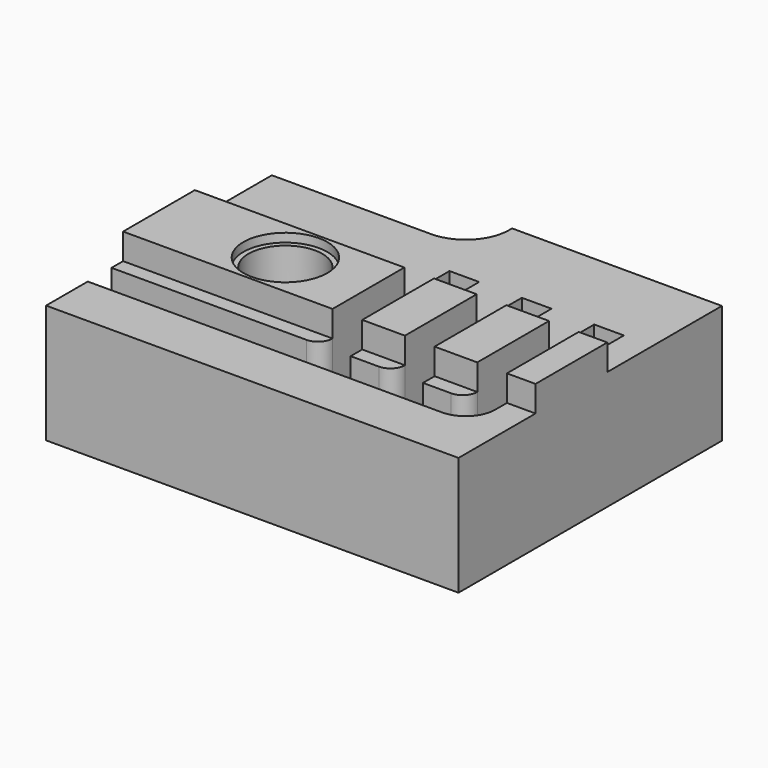
from build123d import *

# Parameters (mm, degrees)
PAD004_DEPTH    = 8.2
SKETCH014_W     = 28.5
SKETCH014_H     = 6.2
PAD005_DEPTH    = 1.8
SKETCH015_R     = 2.9
POCKET004_DEPTH = 0.6
SKETCH016_W     = 2.05
SKETCH016_H     = 6.2
POCKET005_DEPTH = 1.8
POCKET006_DEPTH = 4
SKETCH019_R     = 2.55
POCKET008_DEPTH = 7.5
SKETCH020_R     = 7
POCKET_DEPTH    = 3


with BuildPart() as part:
    # Sketch013 → Pad004 (new body)
    with BuildSketch(Plane.XY):
        with BuildLine():
            Line((0, 0), (28.5, 0))
            Line((28.5, 0), (28.5, 22.75))
            Line((28.5, 22.75), (14, 22.75))
            Line((14, 22.75), (14, 22.5))
            ThreePointArc((11, 19.5), (13.12132, 20.37868), (14, 22.5))
            Line((11, 19.5), (0, 19.5))
            Line((0, 19.5), (0, 0))
        make_face()
    extrude(amount=PAD004_DEPTH)

    # Sketch014 (on Face9 of Pad004) → Pad005 (join)
    with BuildSketch(Plane.XY.offset(8.2)):
        with Locations((14.25, 9.75)):
            Rectangle(SKETCH014_W, SKETCH014_H)
    extrude(amount=PAD005_DEPTH)

    # Sketch015 (on Face11 of Pad005) → Pocket004 (cut)
    with BuildSketch(Plane.XY.offset(10)):
        with Locations((8.735056, 9.75)):
            Circle(SKETCH015_R)
    extrude(amount=-POCKET004_DEPTH, mode=Mode.SUBTRACT)

    # Sketch016 (on Face10 of Pocket004) → Pocket005 (cut)
    with BuildSketch(Plane.XY.offset(10)):
        with Locations((15.5, 9.75)):
            Rectangle(SKETCH016_W, SKETCH016_H)
        Polygon((21.525, 12.85), (21.525, 6.65), (19.475, 6.65), (19.475, 12.85), (20.5, 12.85), align=None)
        with Locations((25.5, 9.75)):
            Rectangle(SKETCH016_W, SKETCH016_H)
    extrude(amount=-POCKET005_DEPTH, mode=Mode.SUBTRACT)

    # Sketch017 (on Face19 of Clone) → Pocket006 (cut)
    with BuildSketch(Plane.XY.offset(8.2)):
        with BuildLine():
            Line((0, 5.65), (13.475, 5.65))
            ThreePointArc((13.475, 5.65), (14.182107, 5.942893), (14.475, 6.65))
            Line((14.475, 6.65), (14.475, 16.75))
            Line((14.475, 16.75), (16.525, 16.75))
            Line((16.525, 16.75), (16.525, 5.65))
            Line((16.525, 5.65), (18.475, 5.65))
            ThreePointArc((18.475, 5.65), (19.182107, 5.942893), (19.475, 6.65))
            Line((19.475, 6.65), (19.475, 16.75))
            Line((19.475, 16.75), (21.525, 16.75))
            Line((21.525, 16.75), (21.525, 5.649972))
            Line((21.525, 5.649972), (23.475, 5.649972))
            ThreePointArc((23.475, 5.649972), (24.182107, 5.942865), (24.475, 6.649972))
            Line((24.475, 6.649972), (24.475, 16.75))
            Line((24.475, 16.75), (26.525, 16.75))
            Line((26.525, 16.75), (26.525, 5.65))
            ThreePointArc((24.475, 3.6), (25.924569, 4.200431), (26.525, 5.65))
            Line((24.475, 3.6), (0, 3.6))
            Line((0, 3.6), (0, 5.65))
        make_face()
    extrude(amount=-POCKET006_DEPTH, mode=Mode.SUBTRACT)

    # Sketch019 (on Face37 of Pocket006) → Pocket008 (cut)
    with BuildSketch(Plane.XY.offset(9.4)):
        with Locations((8.735056, 9.75)):
            Circle(SKETCH019_R)
    extrude(amount=-POCKET008_DEPTH, mode=Mode.SUBTRACT)

    # Sketch020 (on Face4 of Pocket008) → Pocket (cut)
    with BuildSketch(Plane(origin=(0, 0, 0), x_dir=(1, 0, 0), z_dir=(0, 0, -1))):
        with Locations((8.735056, -9.75)):
            Circle(SKETCH020_R)
    extrude(amount=-POCKET_DEPTH, mode=Mode.SUBTRACT)


solid = part.part
